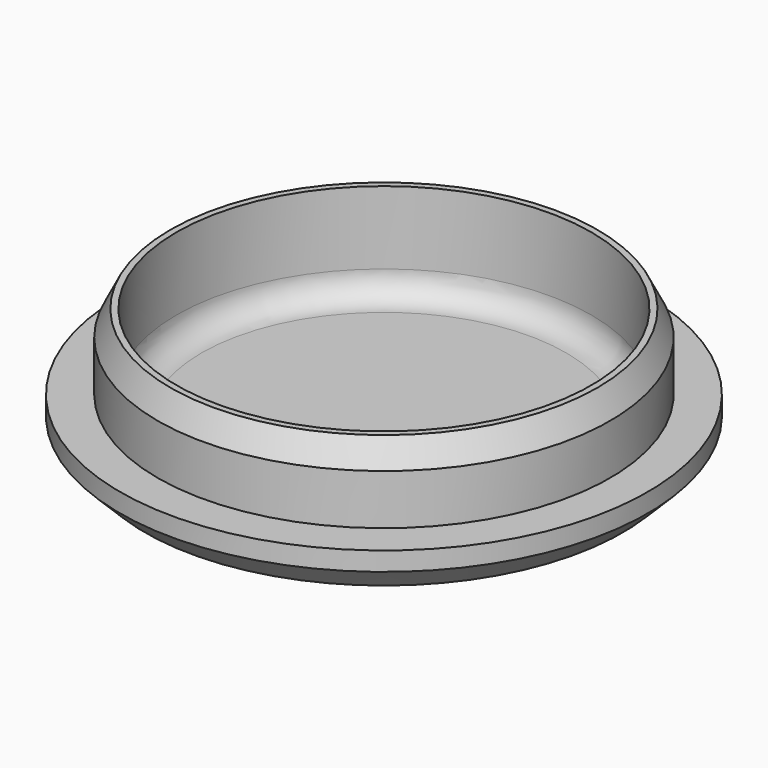
from build123d import *

# Parameters (mm, degrees)
F2_R     = 2
F3_SIZE  = 2
F4_SIZE2 = 1
F4_SIZE  = 2


with BuildPart() as f1:
    # F0 (on Front) → F1 (revolve)
    with BuildSketch(Plane.XZ):
        Polygon((-18, 3.5), (-21, 3.5), (-21, 0), (0, 0), (0, 1.7), (-16.5, 1.7), (-16.5, 9.5), (-18, 9.5), align=None)
    revolve(axis=Axis((0, 0, 0.85), (0, 0, -1)))

    # F2
    f2_edges = [f1.edges().sort_by_distance(p)[0] for p in [
        (16.5, 0, 1.7),
    ]]
    fillet(f2_edges, radius=F2_R)

    # F3
    f3_edges = [f1.edges().sort_by_distance(p)[0] for p in [
        (21, 0, 0),
    ]]
    chamfer(f3_edges, length=F3_SIZE)

    # F4
    f4_edges = [f1.edges().sort_by_distance(p)[0] for p in [
        (18, 0, 9.5),
    ]]
    f4_side = f1.faces().sort_by_distance((18, 0, 6.5))[0]
    chamfer(f4_edges, length=F4_SIZE, length2=F4_SIZE2, reference=f4_side)


solid = f1.part
